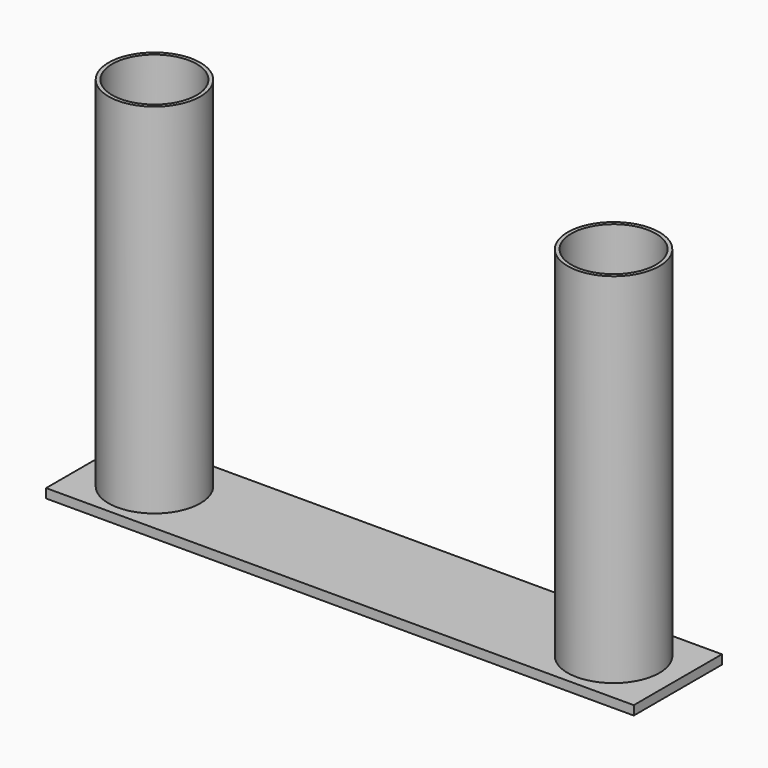
from build123d import *

# Parameters (mm, degrees)
F0_R     = 6.35
F0_R_2   = 5.842
F1_DEPTH = 50.8
F0_W     = 81.28
F0_H     = 15.24
F2_DEPTH = 1.27


with BuildPart() as f1:
    # F0 (on Top) → F1 (new body)
    with BuildSketch(Plane.XY):
        with Locations((-31.75, 0)):
            Circle(F0_R)
        with Locations((-31.75, 0)):
            Circle(F0_R_2, mode=Mode.SUBTRACT)
    extrude(amount=F1_DEPTH)



with BuildPart() as f1b:
    # F0 (on Top) → F1, piece 2 (new body)
    with BuildSketch(Plane.XY):
        with Locations((31.75, 0)):
            Circle(F0_R)
        with Locations((31.75, 0)):
            Circle(F0_R_2, mode=Mode.SUBTRACT)
    extrude(amount=F1_DEPTH)


with BuildPart() as f1_1:
    add(f1.part)

    add(f1b.part)  # F2 merges F1b
    # F0 (on Top) → F2 (join)
    with BuildSketch(Plane.XY):
        Rectangle(F0_W, F0_H)
        with Locations((-31.75, 0)):
            Circle(F0_R, mode=Mode.SUBTRACT)
        with Locations((31.75, 0)):
            Circle(F0_R, mode=Mode.SUBTRACT)
    extrude(amount=F2_DEPTH)


solid = f1_1.part
